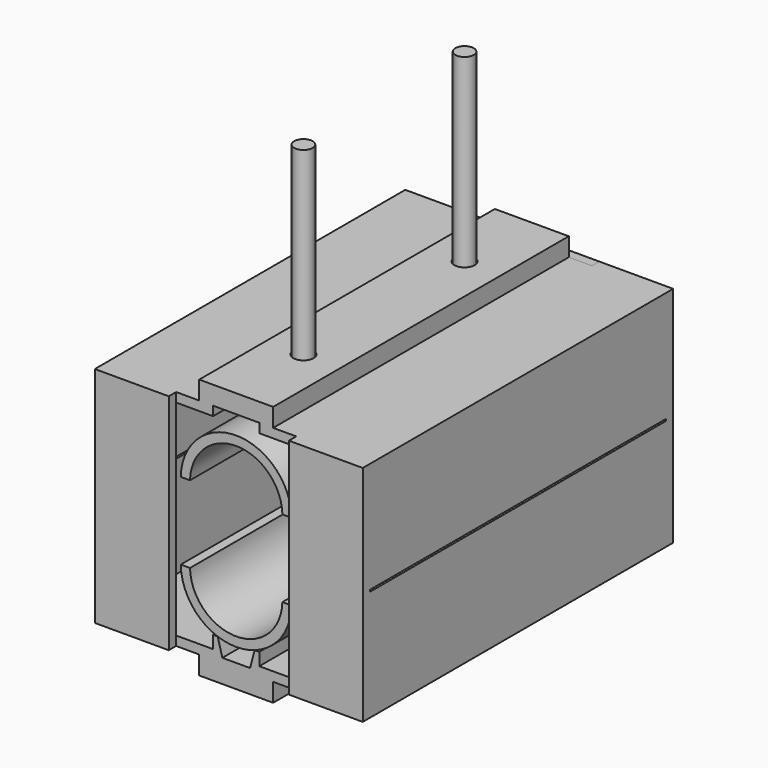
from build123d import *

# Parameters (mm, degrees)
F2_DEPTH  = 254
F4_DEPTH  = 254
F5_R      = 6.985
F6_DEPTH  = 12.7
F8_R      = 6.35
F10_W     = 50.8
F10_H     = 6.35
F11_DEPTH = 153.67
F12_W     = 6.35
F12_H     = 12.7
F13_DEPTH = 82.55
F12_H_2   = 50.8


with BuildPart() as f2:
    # F1 (on Front) → F2 (new body)
    with BuildSketch(Plane.XZ):
        Polygon((-85.725, 0), (-92.075, 0), (-92.075, -76.2), (-25.4, -76.2), (-15.875, -76.2), (-15.875, -69.85), (-85.725, -69.85), align=None)
        Polygon((-15.875, -76.2), (-25.4, -76.2), (-25.4, -88.9), (25.4, -88.9), (25.4, -76.2), (15.875, -76.2), align=None)
        Polygon((-15.875, -69.85), (-15.875, -76.2), (15.875, -76.2), (15.875, -69.85), (15.875, -61.175738686), (12.7, -61.175738686), (9.525, -73.025), (-9.525, -73.025), (-12.7, -61.175738686), (-15.875, -61.175738686), align=None)
        Polygon((15.875, -69.85), (15.875, -76.2), (25.4, -76.2), (92.075, -76.2), (92.075, 0), (85.725, 0), (85.725, -69.85), align=None)
    extrude(amount=-F2_DEPTH)

    # F3 (on Front) → F4 (join)
    with BuildSketch(Plane.XZ):
        with BuildLine():
            ThreePointArc((31.7436493649, -25.8897142017), (0, -57.0047142017), (-31.7436493649, -25.8897142017))
            Line((-31.7436493649, -25.8897142017), (-38.0947079658, -25.8897142017))
            ThreePointArc((-38.0947079658, -25.8897142017), (0, -63.3547142017), (38.0947079658, -25.8897142017))
            Line((38.0947079658, -25.8897142017), (31.7436493649, -25.8897142017))
        make_face()
    extrude(amount=-F4_DEPTH)



with BuildPart() as f2b:
    # F1 (on Front) → F2, piece 2 (new body)
    with BuildSketch(Plane.XZ):
        Polygon((-92.075, 1.27), (-85.725, 1.27), (-85.725, 71.12), (-15.875, 71.12), (-15.875, 77.47), (-25.4, 77.47), (-92.075, 77.47), align=None)
        Polygon((-25.4, 90.17), (-25.4, 77.47), (-15.875, 77.47), (15.875, 77.47), (25.4, 77.47), (25.4, 90.17), align=None)
        Polygon((25.4, 77.47), (15.875, 77.47), (15.875, 71.12), (85.725, 71.12), (85.725, 1.27), (92.075, 1.27), (92.075, 77.47), align=None)
    extrude(amount=-F2_DEPTH)

    # F5 (on face) → F6 (cut, through all)
    with BuildSketch(Plane.XY.offset(90.17)):
        with Locations((0, 196.215)):
            Circle(F5_R)
        with Locations((0, 57.785)):
            Circle(F5_R)
    extrude(amount=-F6_DEPTH, mode=Mode.SUBTRACT)


with BuildPart() as f4:
    # F3 (on Front) → F4, piece 2 (new body)
    with BuildSketch(Plane.XZ):
        with BuildLine():
            ThreePointArc((38.0947079658, 27.1597142017), (0, 64.6247142017), (-38.0947079658, 27.1597142017))
            Line((-38.0947079658, 27.1597142017), (-31.7436493649, 27.1597142017))
            ThreePointArc((-31.7436493649, 27.1597142017), (0, 58.2747142017), (31.7436493649, 27.1597142017))
            Line((31.7436493649, 27.1597142017), (38.0947079658, 27.1597142017))
        make_face()
    extrude(amount=-F4_DEPTH)

    # F8 (on offset) → F9 (join, up to the next surface of F4)
    with BuildSketch(Plane.XY.offset(217.17)):
        with Locations((0, 196.215)):
            Circle(F8_R)
        with Locations((0, 57.785)):
            Circle(F8_R)
    extrude(until=Until.NEXT, dir=(0, 0, -1))


with BuildPart() as f2_1:
    add(f2.part)

    add(f2b.part)  # F11 merges F2b
    # F10 (on face) → F11 (join, through all)
    with BuildSketch(Plane.XY.offset(77.47)):
        with Locations((-66.675, -3.175)):
            Rectangle(F10_W, F10_H)
        with Locations((66.675, -3.175)):
            Rectangle(F10_W, F10_H)
        with Locations((-66.675, 257.175)):
            Rectangle(F10_W, F10_H)
        with Locations((66.675, 257.175)):
            Rectangle(F10_W, F10_H)
    extrude(amount=-F11_DEPTH)


with BuildPart() as f13:
    # F12 (on face) → F13 (new body, through all)
    with BuildSketch(Plane(origin=(41.275, 0, 0), x_dir=(0, -1, 0), z_dir=(-1, 0, 0))):
        with Locations((-257.175, -69.85)):
            Rectangle(F12_W, F12_H)
    extrude(amount=F13_DEPTH)


with BuildPart() as f13b:
    # F12 (on face) → F13, piece 2 (new body, through all)
    with BuildSketch(Plane(origin=(41.275, 0, 0), x_dir=(0, -1, 0), z_dir=(-1, 0, 0))):
        with Locations((-257.175, 52.07)):
            Rectangle(F12_W, F12_H_2)
    extrude(amount=F13_DEPTH)


solid = Compound([f4.part, f2_1.part, f13.part, f13b.part])
